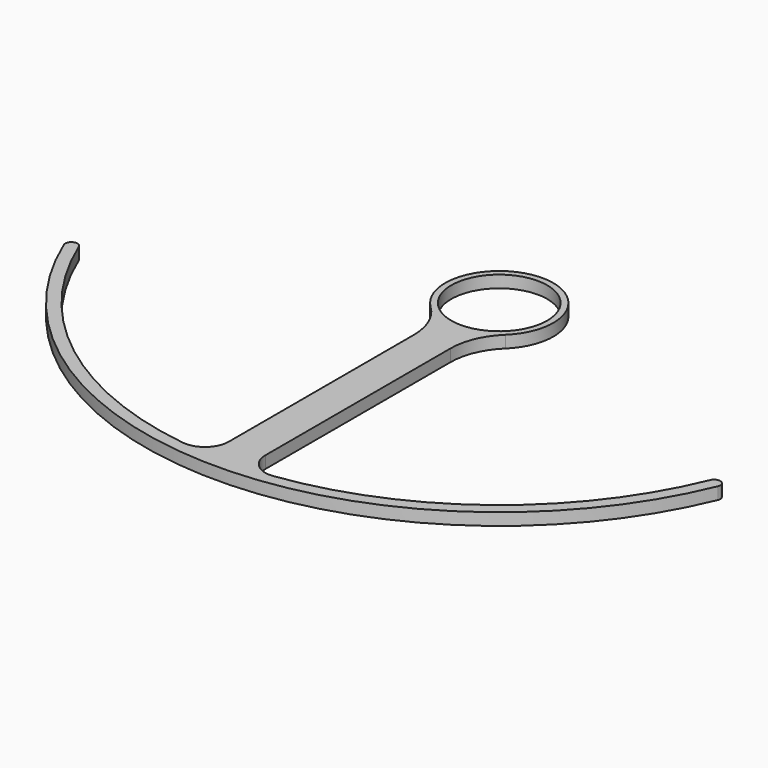
from build123d import *

# Parameters (mm, degrees)
F0_R     = 3.92
F2_DEPTH = 0.9906
F3_R     = 5.08
F4_DEPTH = 0.9906
F5_R     = 1.9460346085


with BuildPart() as f2:
    # F0 (on Top) → F2 (new body)
    with BuildSketch(Plane.XY):
        with BuildLine():
            Line((1.4986, -28.459371031), (1.4986, -4.157771302))
            ThreePointArc((1.4986, -4.157771302), (0, 4.4196), (-1.4986, -4.157771302))
            Line((-1.4986, -4.157771302), (-1.4986, -28.459371031))
            Line((-1.4986, -28.459371031), (1.4986, -28.459371031))
        make_face()
        Circle(F0_R, mode=Mode.SUBTRACT)
    extrude(amount=F2_DEPTH)

    # F3
    f3_edges = [f2.edges().sort_by_distance(p)[0] for p in [
        (1.4986, -4.157771, 0.4953),
        (-1.4986, -4.157771, 0.4953),
    ]]
    fillet(f3_edges, radius=F3_R)

    # F1 (on Top) → F4 (join)
    with BuildSketch(Plane.XY):
        with BuildLine():
            ThreePointArc((26.7401224733, -11.076121388), (26.7392931104, -10.6950451816), (26.4680773128, -10.4273480505))
            ThreePointArc((26.4680773128, -10.4273480505), (26.0909918386, -10.4298101144), (25.8249274084, -10.6970351799))
            ThreePointArc((25.8249274084, -10.6970351799), (0, -27.9527), (-25.8249274084, -10.6970351799))
            ThreePointArc((-25.8249274084, -10.6970351799), (-26.0909918386, -10.4298101144), (-26.4680773128, -10.4273480505))
            ThreePointArc((-26.4680773128, -10.4273480505), (-26.7392931104, -10.6950451816), (-26.7401224733, -11.076121388))
            ThreePointArc((-26.7401224733, -11.076121388), (0, -28.9433), (26.7401224733, -11.076121388))
        make_face()
    extrude(amount=F4_DEPTH)

    # F5
    f5_edges = [f2.edges().sort_by_distance(p)[0] for p in [
        (1.4986, -27.9125, 0.4953),
        (-1.4986, -27.9125, 0.4953),
    ]]
    fillet(f5_edges, radius=F5_R)


solid = f2.part
